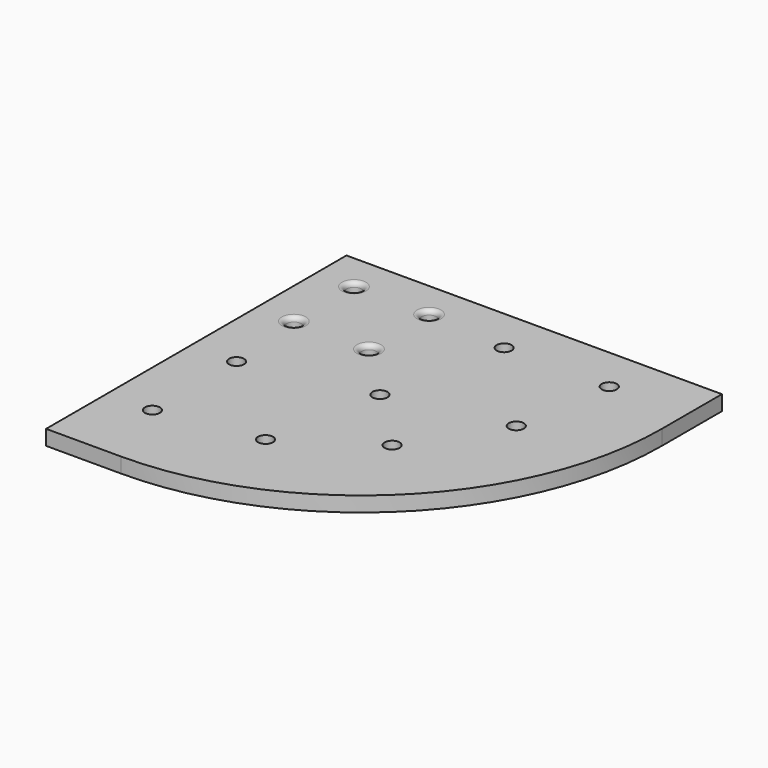
from build123d import *

# Parameters (mm, degrees)
F0_R     = 5
F1_DEPTH = 10
F2_R     = 3
F3_R     = 3


with BuildPart() as f1:
    # F0 (on Top) → F1 (new body)
    with BuildSketch(Plane.XY):
        with BuildLine():
            Line((93.735921, 147.437326), (-156.264079, 147.437326))
            Line((-156.264079, 147.437326), (-156.264079, -102.562674))
            Line((-156.264079, -102.562674), (-106.264079, -102.562674))
            ThreePointArc((-106.264079, -102.562674), (35.157277, -43.98403), (93.735921, 97.437326))
            Line((93.735921, 97.437326), (93.735921, 147.437326))
        make_face()
        with Locations((-126.264079, -51.560162)):
            Circle(F0_R, mode=Mode.SUBTRACT)
        with Locations((-59.674067, -40.681091)):
            Circle(F0_R, mode=Mode.SUBTRACT)
        with Locations((-126.264079, 18.439838)):
            Circle(F0_R, mode=Mode.SUBTRACT)
        with Locations((-4.327974, -4.498779)):
            Circle(F0_R, mode=Mode.SUBTRACT)
        with Locations((-131.264079, 72.437326)):
            Circle(F0_R, mode=Mode.SUBTRACT)
        with Locations((-44.771627, 35.953354)):
            Circle(F0_R, mode=Mode.SUBTRACT)
        with Locations((-81.264079, 72.437326)):
            Circle(F0_R, mode=Mode.SUBTRACT)
        with Locations((-131.264079, 122.437326)):
            Circle(F0_R, mode=Mode.SUBTRACT)
        with Locations((-81.264079, 122.437326)):
            Circle(F0_R, mode=Mode.SUBTRACT)
        with Locations((32.58103, 52.741523)):
            Circle(F0_R, mode=Mode.SUBTRACT)
        with Locations((-27.266591, 117.437326)):
            Circle(F0_R, mode=Mode.SUBTRACT)
        with Locations((42.733409, 117.437326)):
            Circle(F0_R, mode=Mode.SUBTRACT)
    extrude(amount=F1_DEPTH)

    # F2
    f2_edges = [f1.edges().sort_by_distance(p)[0] for p in [
        (-136.264079, 122.437326, 10),
        (-86.264079, 122.437326, 10),
        (-136.264079, 72.437326, 10),
        (-86.264079, 72.437326, 10),
    ]]
    fillet(f2_edges, radius=F2_R)

    # F3
    f3_edges = [f1.edges().sort_by_distance(p)[0] for p in [
        (-131.264079, -51.560162, 0),
        (-64.674067, -40.681091, 0),
        (-9.327974, -4.498779, 0),
        (27.58103, 52.741523, 0),
        (37.733409, 117.437326, 0),
        (-32.266591, 117.437326, 0),
        (-49.771627, 35.953354, 0),
        (-131.264079, 18.439838, 0),
    ]]
    fillet(f3_edges, radius=F3_R)


solid = f1.part
